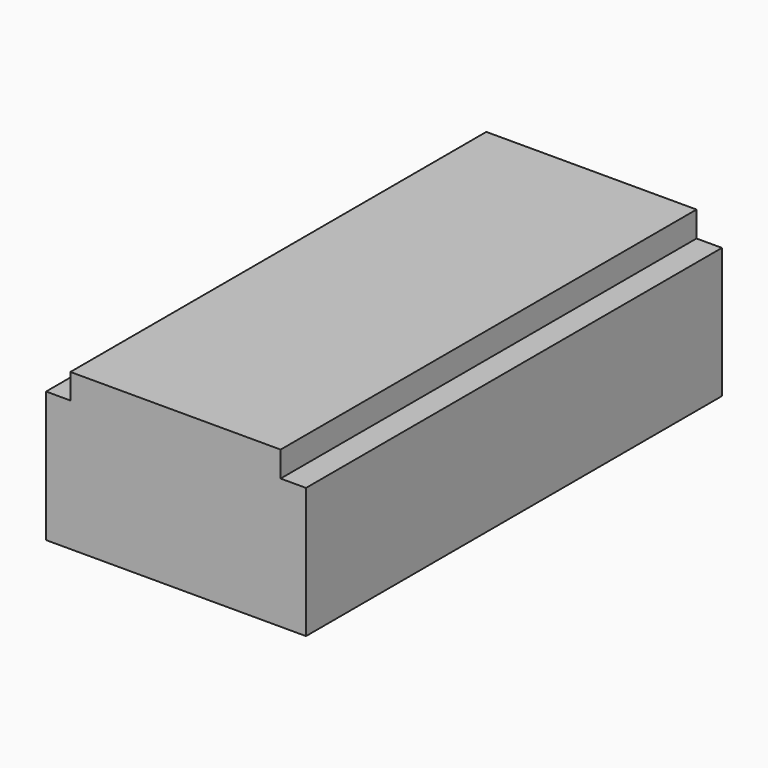
from build123d import *

# Parameters (mm, degrees)
F0_W     = 63.5
F0_H     = 38.1
F1_DEPTH = 127
F3_W     = 6.35
F3_H     = 6.35
F4_DEPTH = 127
F2_W     = 6.35
F2_H     = 6.35
F5_DEPTH = 127


with BuildPart() as f1:
    # F0 (on Front) → F1 (new body)
    with BuildSketch(Plane.XZ):
        Rectangle(F0_W, F0_H)
    extrude(amount=F1_DEPTH)

    # F3 (on Front) → F4 (cut)
    with BuildSketch(Plane.XZ):
        with Locations((-28.984677, 16.079839)):
            Rectangle(F3_W, F3_H)
    extrude(amount=F4_DEPTH, mode=Mode.SUBTRACT)

    # F2 (on Front) → F5 (cut)
    with BuildSketch(Plane.XZ):
        with Locations((28.718387, 15.997903)):
            Rectangle(F2_W, F2_H)
    extrude(amount=F5_DEPTH, mode=Mode.SUBTRACT)


solid = f1.part
